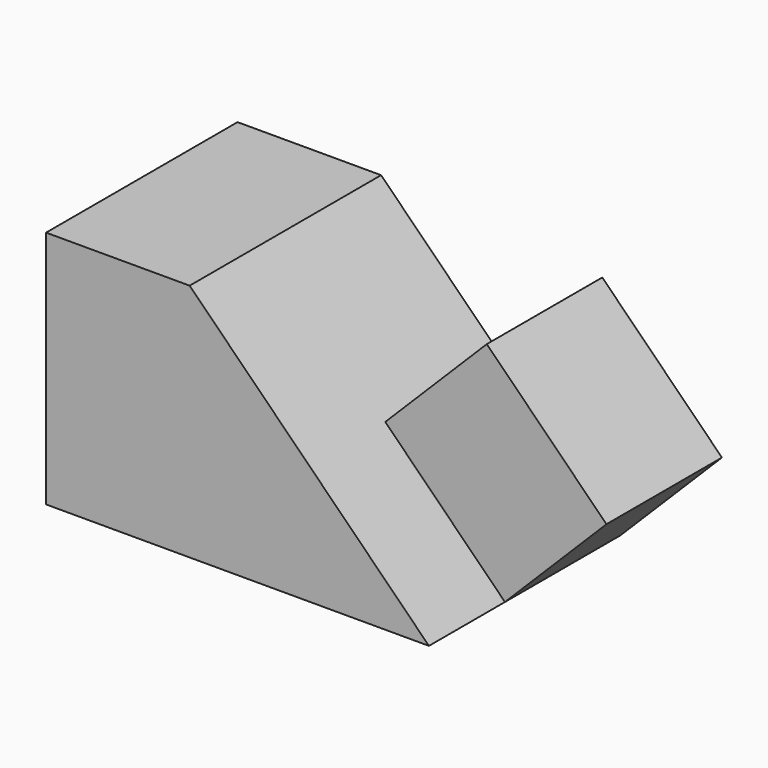
from build123d import *

# Parameters (mm, degrees)
F1_DEPTH = 31.75
F2_W     = 22.450641
F2_H     = 19.15133
F3_DEPTH = 19.05


with BuildPart() as f1:
    # F0 (on Front) → F1 (new body)
    with BuildSketch(Plane.XZ):
        Polygon((6.120319, 29.338351), (-12.929681, 29.338351), (-12.929681, -2.411649), (37.870319, -2.411649), align=None)
    extrude(amount=F1_DEPTH)


with BuildPart() as f3:
    # F2 (on face) → F3 (new body)
    with BuildSketch(Plane(origin=(17.729335, 0, 17.729335), x_dir=(0.707107, 0, -0.707107), z_dir=(0.707107, 0, 0.707107))):
        with Locations((17.258333, -9.575665)):
            Rectangle(F2_W, F2_H)
    extrude(amount=F3_DEPTH)


solid = Compound([f1.part, f3.part])
